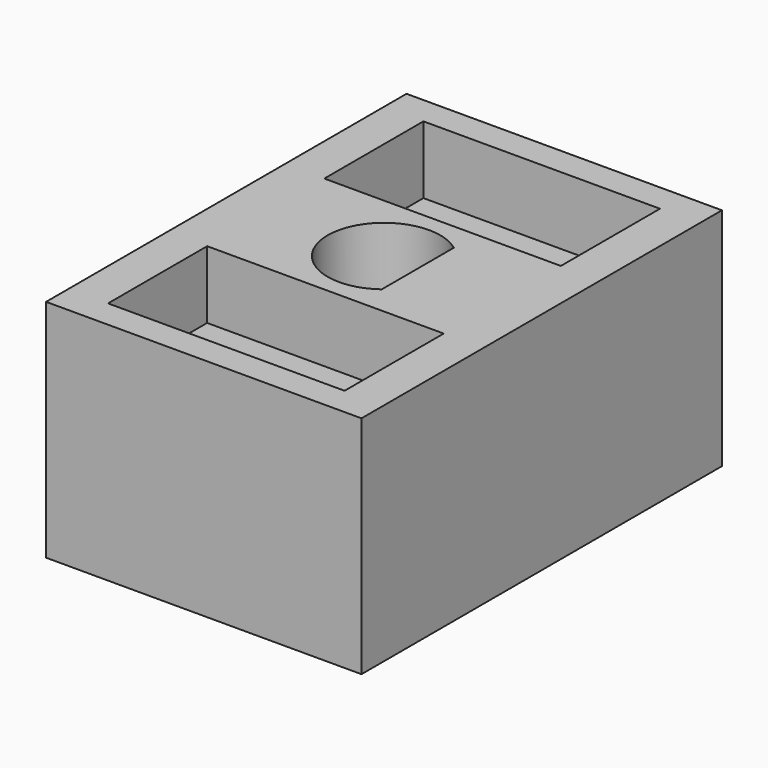
from build123d import *

# Parameters (mm, degrees)
F0_W     = 14
F0_H     = 20
F0_W_2   = 10.5
F0_H_2   = 5.5
F1_DEPTH = 10
F2_DEPTH = 7


with BuildPart() as f1:
    # F0 (on Top) → F1 (new body)
    with BuildSketch(Plane.XY):
        Rectangle(F0_W, F0_H)
        with Locations((0, -6)):
            Rectangle(F0_W_2, F0_H_2, mode=Mode.SUBTRACT)
        with BuildLine():
            ThreePointArc((1.5, -2), (-2.5, 0), (1.5, 2))
            Line((1.5, 2), (1.5, -2))
        make_face(mode=Mode.SUBTRACT)
        with Locations((0, 6)):
            Rectangle(F0_W_2, F0_H_2, mode=Mode.SUBTRACT)
    extrude(amount=F1_DEPTH)

    # F0 (on Top) → F2 (join)
    with BuildSketch(Plane.XY):
        with Locations((0, 6)):
            Rectangle(F0_W_2, F0_H_2)
        with Locations((0, -6)):
            Rectangle(F0_W_2, F0_H_2)
    extrude(amount=F2_DEPTH)


solid = f1.part
